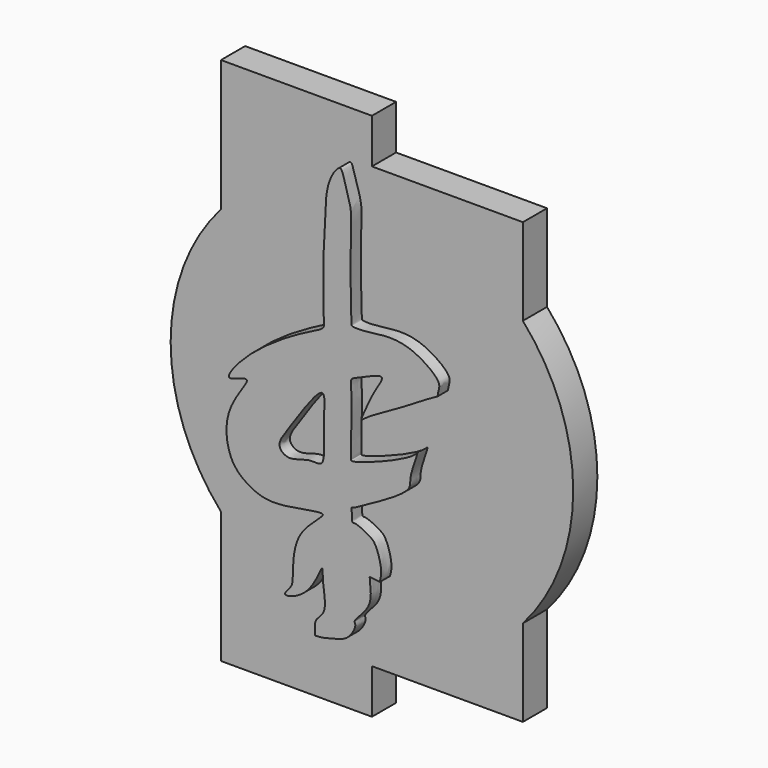
from build123d import *

# Parameters (mm, degrees)
F1_DEPTH = 3
F3_DEPTH = 2.1


with BuildPart() as f1:
    # F0 (on Front) → F1 (new body)
    with BuildSketch(Plane.XZ):
        with BuildLine():
            add(Edge.make_bspline(
                [(5.2966806315, 3.3082481023), (5.2692862624, 3.3172488073), (5.3867755906, 3.7737615804), (5.5049847442, 4.3379757828), (3.5293952685, 5.7594487251), (1.6334764305, 5.8794665894), (0.104706979, 5.5983717629), (-0.6481232664, 5.6465064306), (-0.7664196351, 5.7909260195), (-0.7841051381, 11.8573046201), (-0.6695127089, 12.7615459591), (-1.2356546277, 14.5391775513), (-1.4672022579, 15.3643166011), (-2.4946797783, 13.9571224303), (-2.5049365785, 11.6200333325), (-2.6728354766, 9.5949210166), (-2.662773126, 6.4143155143), (-2.6153845082, 5.1962747534), (-2.6241099208, 4.8136767827), (-4.3020184842, 4.1092966077), (-7.8852074096, 1.857806999), (-9.5773298229, -0.42108433), (-8.7349209308, -0.1884462393), (-7.5412019783, 0.3085361897), (-8.9660252571, -1.4660944031), (-9.5756969407, -3.3024167396), (-9.1350603793, -5.4437505525), (-7.8812457603, -6.4688535955), (-6.3220483873, -7.1116173739), (-3.7197849663, -6.5662781498), (-2.5877422198, -6.4172726262), (-2.8723374541, -6.8540633145), (-4.7851527092, -8.2398902317), (-4.769974567, -10.9844189601), (-4.8107655686, -11.6546245026), (-5.777469319, -12.5421144219), (-3.5067381413, -11.9285955049), (-2.6430858193, -9.2471538464), (-2.7695349666, -10.6517450844), (-2.2940517179, -12.5403519127), (-3.3791068211, -13.0724016018), (-3.2397377227, -13.8649553307), (-3.2448791762, -14.1129367842)],
                knots=[0.0019875161, 0.0019875161, 0.0019875161, 0.0019875161, 0.0140152498, 0.0297823984, 0.0607236411, 0.0905070442, 0.1168976141, 0.1335834345, 0.1411548442, 0.1916525676, 0.2162429468, 0.2440550722, 0.259022414, 0.2823049249, 0.3148204993, 0.3457762501, 0.38344844, 0.4059062806, 0.4165581353, 0.4427324255, 0.488708946, 0.5188231593, 0.5333451013, 0.5517578966, 0.5775424566, 0.6084632384, 0.638242415, 0.6640149333, 0.6909496614, 0.7259237905, 0.7450770397, 0.7555066639, 0.7871183246, 0.8210612973, 0.8389805326, 0.8560446213, 0.8824847582, 0.9129980913, 0.9301776702, 0.9594105533, 0.9799098762, 1, 1, 1, 1], degree=3))
            add(Edge.make_bspline(
                [(-3.2448791762, -14.1129367842), (-2.7334106247, -14.1144448003), (-1.8947364578, -13.8600753578), (-0.8849976202, -13.6288409978), (-0.3209034008, -12.5567561351), (-0.6229203753, -12.3255772514), (0.4364879056, -11.4172885727), (0.7356932412, -10.4272631311), (0.5316126238, -9.2291944198), (0.6038366518, -9.3208150748), (1.2677763868, -9.3179676011), (1.2351187287, -9.4379297764), (1.5083962792, -8.6874396174), (1.0284307041, -7.2240158505), (0.6721902364, -6.8108243336), (-0.4310635837, -6.2667452205), (-0.7367251893, -6.4200004044), (-0.6278060192, -5.3457930172), (-0.759149298, -5.4867524754), (-0.5105114727, -5.3993270857)],
                knots=[0, 0, 0, 0, 0.086264345, 0.1609046433, 0.2345476464, 0.2684721425, 0.3474633516, 0.4288348181, 0.50146705, 0.516007442, 0.5746681589, 0.5852510427, 0.6415129491, 0.7330883272, 0.7907630611, 0.8691998657, 0.9011974519, 0.9664577952, 1, 1, 1, 1], degree=3))
            add(Edge.make_bspline(
                [(-0.5105114727, -5.3993270857), (-0.1596060641, -5.2159889785), (0.9188964614, -4.6180723366), (3.4384825868, -3.1890696873), (3.3528232198, -2.4544921563), (3.5035396373, -1.7484448165), (4.0089840843, -0.3741918238), (3.4851702337, -1.2137314516), (-0.8622732644, -2.8616217929), (-0.686914531, -2.3987103048), (-0.8006216508, -1.3857311948), (-0.5843466442, 1.1331391991), (-0.8462429903, 2.4618223396), (-0.2703691072, 2.5910541495), (1.931912434, 3.6991826242), (0.8315013718, 2.1490324195), (0.4661517253, 1.2639482905), (-0.1826912631, -0.0682211507), (0.454214894, 0.5516195841), (2.2497673947, 1.4298885506), (4.4614489659, 2.8685284251), (5.2966806315, 3.3082481023)],
                knots=[0, 0, 0, 0, 0.0596008578, 0.136048277, 0.1707347549, 0.2122439174, 0.2596178404, 0.2928193895, 0.3897786966, 0.4066972365, 0.4522530309, 0.5279027566, 0.5769284931, 0.6112597938, 0.6712521409, 0.7172156512, 0.770478704, 0.816389536, 0.8451452934, 0.9125840148, 0.9997450263, 0.9997450263, 0.9997450263, 0.9997450263], degree=3))
        make_face()
        with BuildLine():
            add(Edge.make_bspline(
                [(-2.7479589917, 0.906750327), (-3.1182094805, 0.9148694948), (-5.0239377636, -2.0014003862), (-5.9961215266, -3.2901905263), (-5.0202101596, -4.0585674599), (-3.6653833992, -3.3372737173), (-2.4206910511, -3.7579896206), (-2.766420232, -1.0662626829), (-2.4816314772, 0.9009100706), (-2.7479589917, 0.906750327)],
                knots=[0, 0, 0, 0, 0.2078027137, 0.3472499243, 0.4447084967, 0.5782378931, 0.6779422234, 0.850523951, 1, 1, 1, 1], degree=3))
        make_face(mode=Mode.SUBTRACT)
    extrude(amount=F1_DEPTH)

    # F2 (on Front) → F3 (join)
    with BuildSketch(Plane.XZ):
        with BuildLine():
            Line((10.5, 15.3), (0, 15.3))
            Line((0, 15.3), (0, 18.4))
            Line((0, 18.4), (-10.5, 18.4))
            Line((-10.5, 18.4), (-10.5, 9.2601295887))
            ThreePointArc((-10.5, 9.2601295887), (-14, 0), (-10.5, -9.2601295887))
            Line((-10.5, -9.2601295887), (-10.5, -18.4))
            Line((-10.5, -18.4), (0, -18.4))
            Line((0, -18.4), (0, -15.3))
            Line((0, -15.3), (10.5, -15.3))
            Line((10.5, -15.3), (10.5, -9.2601295887))
            ThreePointArc((10.5, -9.2601295887), (14, 0), (10.5, 9.2601295887))
            Line((10.5, 9.2601295887), (10.5, 15.3))
        make_face()
    extrude(amount=F3_DEPTH)


solid = f1.part
